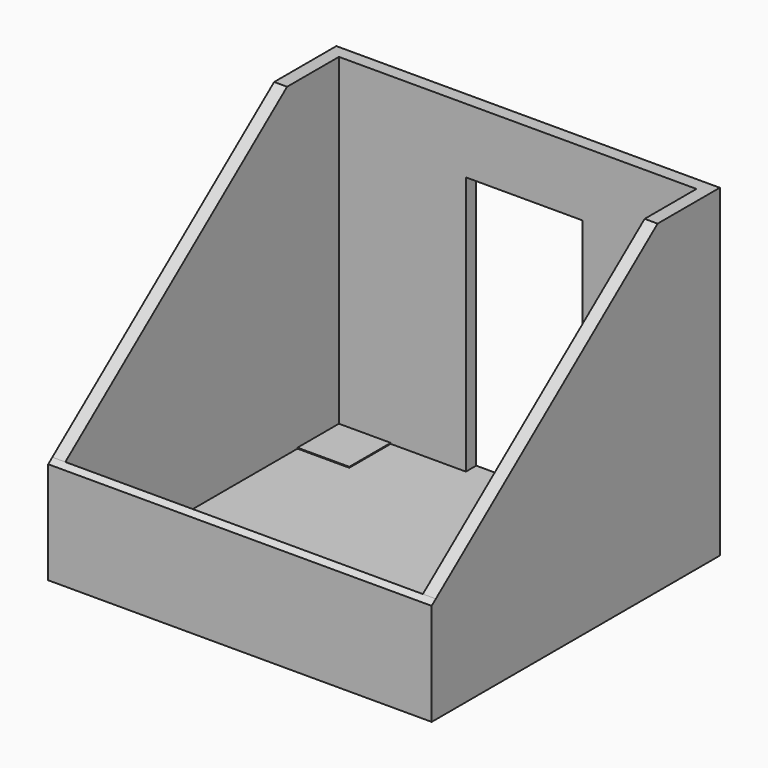
from build123d import *

# Parameters (mm, degrees)
F0_W      = 2960
F0_H      = 2780
F0_W_2    = 2760
F0_H_2    = 2640
F1_DEPTH  = 2500
F2_W      = 900
F2_H      = 2000
F3_DEPTH  = 100
F5_DEPTH  = 25
F7_DEPTH  = 2960.001
F8_DEPTH  = 2960
F9_W      = 400
F9_H      = 400
F10_DEPTH = 7


with BuildPart() as f1:
    # F0 (on Top) → F1 (new body)
    with BuildSketch(Plane.XY):
        with Locations((1480, 1390)):
            Rectangle(F0_W, F0_H)
        with Locations((1480, 1360)):
            Rectangle(F0_W_2, F0_H_2, mode=Mode.SUBTRACT)
    extrude(amount=F1_DEPTH)

    # F2 (on face) → F3 (cut, through all)
    with BuildSketch(Plane.XZ.offset(-2680)):
        with Locations((1530, 1000)):
            Rectangle(F2_W, F2_H)
    extrude(amount=-F3_DEPTH, mode=Mode.SUBTRACT)

    # F6 (on face) → F7 (cut, through all)
    with BuildSketch(Plane.YZ.offset(2960)):
        Polygon((0, 2500), (0, 820), (40, 820), (2180, 2500), align=None)
    extrude(amount=-F7_DEPTH, mode=Mode.SUBTRACT)

    # F6 (on face) → F8 (cut, through all)
    with BuildSketch(Plane.YZ.offset(2960)):
        Polygon((40, 820), (0, 820), (0, 788.598131), align=None)
    extrude(amount=-F8_DEPTH, mode=Mode.SUBTRACT)


with BuildPart() as f5:
    # F4 (on face) → F5 (new body)
    with BuildSketch(Plane(origin=(0, 0, 0), x_dir=(1, 0, 0), z_dir=(0, 0, -1))):
        Polygon((1080, -2680), (1080, -2780), (1980, -2780), (1980, -2680), (2860, -2680), (2860, -40), (100, -40), (100, -2680), align=None)
    extrude(amount=F5_DEPTH)


with BuildPart() as f10:
    # F9 (on face) → F10 (new body)
    with BuildSketch(Plane.XY):
        with Locations((300, 2480)):
            Rectangle(F9_W, F9_H)
    extrude(amount=F10_DEPTH)


solid = Compound([f1.part, f5.part, f10.part])
